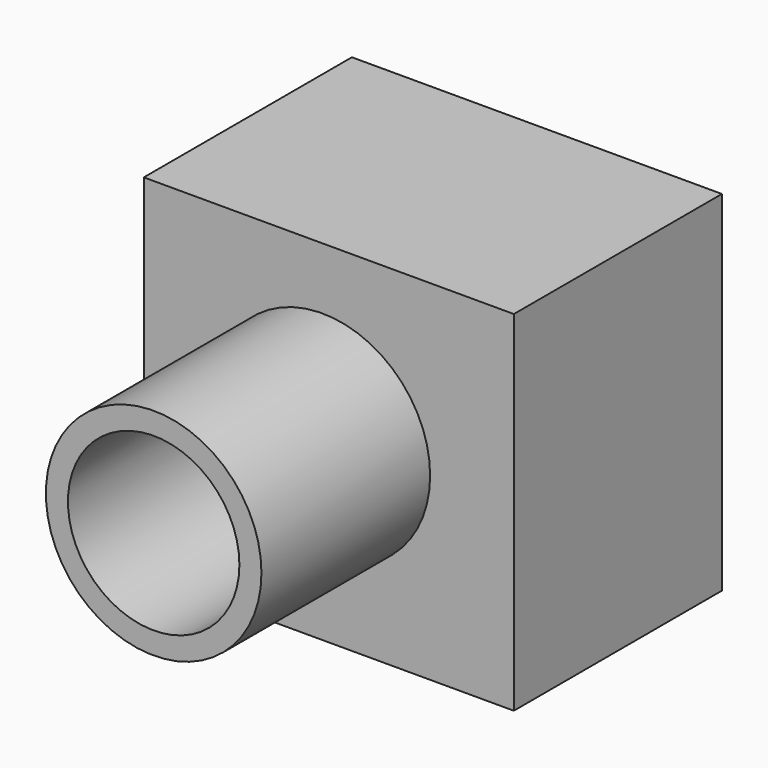
from build123d import *

# Parameters (mm, degrees)
F0_W     = 82.024645
F0_H     = 77.41975
F1_DEPTH = 57.658
F2_R     = 23.894838
F3_DEPTH = 46.736
F4_R     = 19.003209
F5_DEPTH = 198.882


with BuildPart() as f1:
    # F0 (on Front) → F1 (new body)
    with BuildSketch(Plane.XZ):
        with Locations((1.43903, -1.151223)):
            Rectangle(F0_W, F0_H)
    extrude(amount=F1_DEPTH)

    # F2 (on face) → F3 (join)
    with BuildSketch(Plane.XZ.offset(57.658)):
        Circle(F2_R)
    extrude(amount=F3_DEPTH)

    # F4 (on face) → F5 (cut)
    with BuildSketch(Plane.XZ.offset(104.394)):
        Circle(F4_R)
    extrude(amount=-F5_DEPTH, mode=Mode.SUBTRACT)


solid = f1.part
